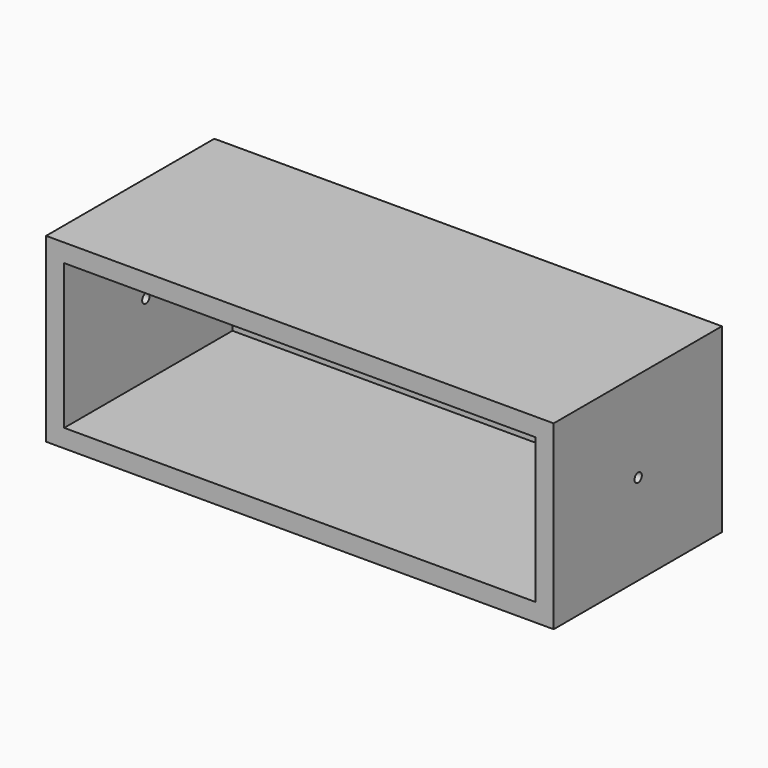
from build123d import *

# Parameters (mm, degrees)
F0_W     = 355.6
F0_H     = 127
F1_DEPTH = 147.32
F2_W     = 330.2
F2_H     = 101.6
F3_DEPTH = 147.32
F4_W     = 330.2
F4_H     = 101.6
F5_DEPTH = 0.254
F6_R     = 3.245311
F7_DEPTH = 25.4
F8_R     = 3.186869
F9_DEPTH = 25.4


with BuildPart() as f1:
    # F0 (on Front) → F1 (new body)
    with BuildSketch(Plane.XZ):
        Rectangle(F0_W, F0_H)
    extrude(amount=F1_DEPTH)

    # F2 (on face) → F3 (cut, through all)
    with BuildSketch(Plane.XZ.offset(147.32)):
        Rectangle(F2_W, F2_H)
    extrude(amount=-F3_DEPTH, mode=Mode.SUBTRACT)

    # F6 (on face) → F7 (cut)
    with BuildSketch(Plane(origin=(-177.8, 0, 0), x_dir=(0, -1, 0), z_dir=(-1, 0, 0))):
        with Locations((75.803846, 0)):
            Circle(F6_R)
    extrude(amount=-F7_DEPTH, mode=Mode.SUBTRACT)

    # F8 (on face) → F9 (cut)
    with BuildSketch(Plane.YZ.offset(177.8)):
        with Locations((-73.342763, 0)):
            Circle(F8_R)
    extrude(amount=-F9_DEPTH, mode=Mode.SUBTRACT)


with BuildPart() as f5:
    # F4 (on face) → F5 (new body)
    with BuildSketch(Plane(origin=(0, 0, 0), x_dir=(-1, 0, 0), z_dir=(0, 1, 0))):
        Rectangle(F4_W, F4_H)
    extrude(amount=F5_DEPTH)


solid = Compound([f1.part, f5.part])
